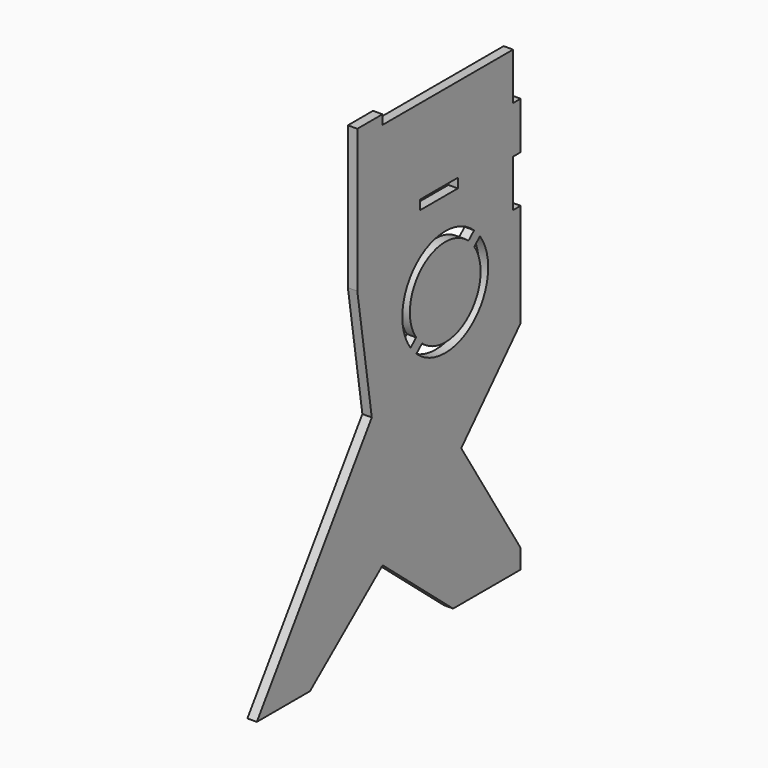
from build123d import *

# Parameters (mm, degrees)
F0_W     = 65
F0_H     = 150
F1_DEPTH = 3
F2_W     = 55
F2_H     = 3
F3_DEPTH = 3
F4_W     = 3
F4_H     = 15
F5_DEPTH = 3
F6_W     = 3
F6_H     = 75
F7_DEPTH = 40
F8_W     = 15
F8_H     = 3
F9_DEPTH = 3


with BuildPart() as f1:
    # F0 (on Right) → F1 (new body)
    with BuildSketch(Plane.YZ):
        Rectangle(F0_W, F0_H)
    extrude(amount=F1_DEPTH)

    # F2 (on face) → F3 (cut, through all)
    with BuildSketch(Plane.YZ.offset(3)):
        with Locations((5, 73.5)):
            Rectangle(F2_W, F2_H)
    extrude(amount=-F3_DEPTH, mode=Mode.SUBTRACT)

    # F4 (on face) → F5 (cut, through all)
    with BuildSketch(Plane.YZ.offset(3)):
        with Locations((31, 64.5)):
            Rectangle(F4_W, F4_H)
        with Locations((31, 34.5)):
            Rectangle(F4_W, F4_H)
    extrude(amount=-F5_DEPTH, mode=Mode.SUBTRACT)

    # F6 (on face) → F7 (join)
    with BuildSketch(Plane.XZ.offset(32.5)):
        with Locations((1.5, -37.5)):
            Rectangle(F6_W, F6_H)
    extrude(amount=F7_DEPTH)

    # F8 (on face) → F9 (cut, through all)
    with BuildSketch(Plane.YZ.offset(3)):
        with BuildLine():
            Line((-6.735242, 4.372493), (-8.983605, 2.357307))
            ThreePointArc((-8.983605, 2.357307), (13.899524, 2.281442), (16.319635, 25.036362))
            Line((16.319635, 25.036362), (14.071272, 23.021176))
            ThreePointArc((14.071272, 23.021176), (11.897213, 4.51544), (-6.735242, 4.372493))
        make_face()
        with BuildLine():
            ThreePointArc((13.983605, 27.642693), (-8.899524, 27.718558), (-11.319635, 4.963638))
            Line((-11.319635, 4.963638), (-9.071272, 6.978824))
            ThreePointArc((-9.071272, 6.978824), (-6.897213, 25.48456), (11.735242, 25.627507))
            Line((11.735242, 25.627507), (13.983605, 27.642693))
        make_face()
        Polygon((-26.736403, -8.270669), (-32.5, 29.491454), (-32.5, 0), (-72.5, 0), (-72.5, -75), align=None)
        Polygon((-22.420732, -51.427379), (-51.33573, -75), (5.631127, -75), align=None)
        Polygon((8.86788, -31.359509), (32.5, -68.905853), (32.5, -5.897049), align=None)
        with Locations((0, 43.517388)):
            Rectangle(F8_W, F8_H)
    extrude(amount=-F9_DEPTH, mode=Mode.SUBTRACT)


solid = f1.part
